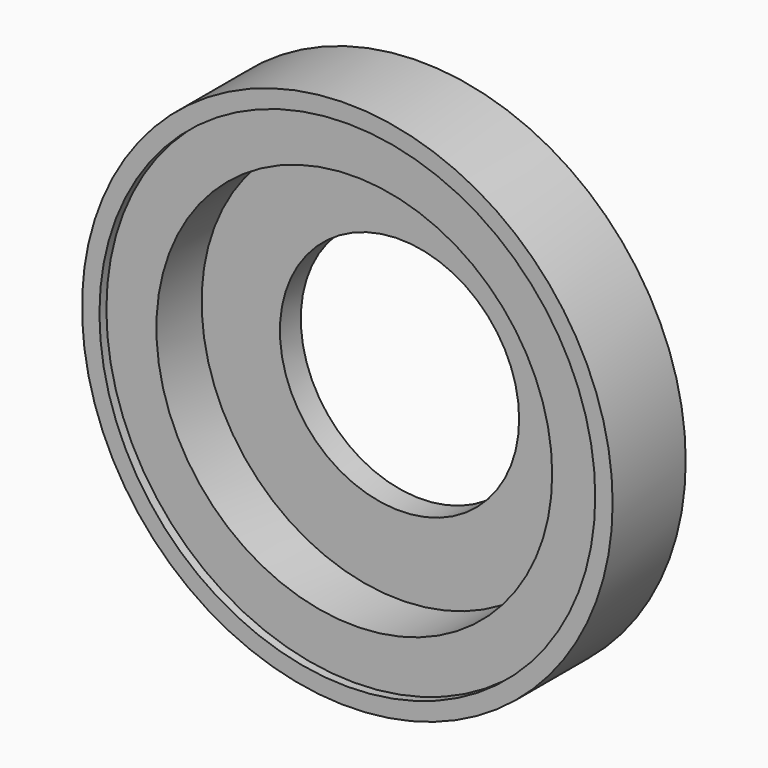
from build123d import *

# Parameters (mm, degrees)
F0_R     = 6.1
F1_DEPTH = 0.6
F2_R     = 6.1
F2_R_2   = 4.55
F3_DEPTH = 1.3
F4_R     = 2.75
F5_DEPTH = 0.6
F6_R     = 6.1
F6_R_2   = 5.7
F7_DEPTH = 0.2


with BuildPart() as f1:
    # F0 (on Front) → F1 (new body)
    with BuildSketch(Plane.XZ):
        Circle(F0_R)
    extrude(amount=F1_DEPTH)

    # F2 (on face) → F3 (join)
    with BuildSketch(Plane.XZ.offset(0.6)):
        Circle(F2_R)
        Circle(F2_R_2, mode=Mode.SUBTRACT)
    extrude(amount=F3_DEPTH)

    # F4 (on face) → F5 (cut)
    with BuildSketch(Plane.XZ.offset(0.6)):
        Circle(F4_R)
    extrude(amount=-F5_DEPTH, mode=Mode.SUBTRACT)

    # F6 (on face) → F7 (join)
    with BuildSketch(Plane.XZ.offset(1.9)):
        Circle(F6_R)
        Circle(F6_R_2, mode=Mode.SUBTRACT)
    extrude(amount=F7_DEPTH)


solid = f1.part
